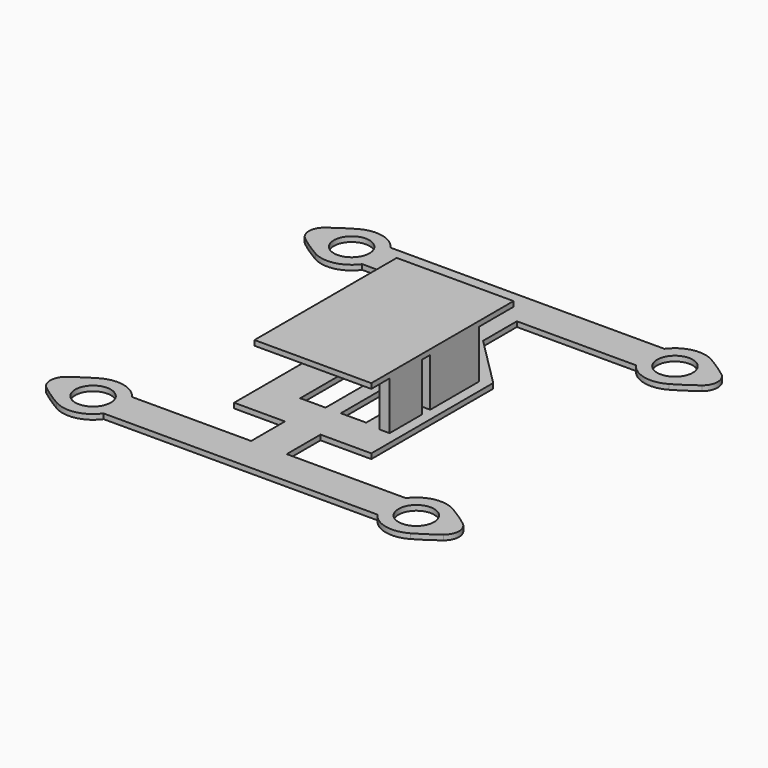
from build123d import *

# Parameters (mm, degrees)
F0_R     = 3.5
F0_W     = 5
F0_H     = 25
F1_DEPTH = 1
F2_W     = 2
F2_H     = 12
F2_H_2   = 8
F3_DEPTH = 9.5
F4_W     = 23
F4_H     = 35
F5_DEPTH = 1


with BuildPart() as f1:
    # F0 (on Top) → F1 (new body)
    with BuildSketch(Plane.XY):
        with BuildLine():
            Line((3.5, -20), (13.5, -20))
            Line((13.5, -20), (13.5, 10))
            Line((13.5, 10), (3.5, 20))
            Line((3.5, 20), (3.5, 28.319805))
            Line((3.5, 28.319805), (26.946408, 28.319805))
            ThreePointArc((26.946408, 28.319805), (30.556224, 25.954367), (34.819805, 26.623653))
            ThreePointArc((34.819805, 26.623653), (36.975362, 27.961046), (39.041812, 29.432384))
            ThreePointArc((39.041812, 29.432384), (40.225162, 31.819805), (39.041812, 34.207227))
            ThreePointArc((39.041812, 34.207227), (36.975362, 35.678564), (34.819805, 37.015958))
            ThreePointArc((34.819805, 37.015958), (30.556224, 37.685243), (26.946408, 35.319805))
            Line((26.946408, 35.319805), (-26.946408, 35.319805))
            ThreePointArc((-26.946408, 35.319805), (-30.556224, 37.685243), (-34.819805, 37.015958))
            ThreePointArc((-34.819805, 37.015958), (-36.975362, 35.678564), (-39.041812, 34.207227))
            ThreePointArc((-39.041812, 34.207227), (-40.225162, 31.819805), (-39.041812, 29.432384))
            ThreePointArc((-39.041812, 29.432384), (-36.975362, 27.961046), (-34.819805, 26.623653))
            ThreePointArc((-34.819805, 26.623653), (-30.556224, 25.954367), (-26.946408, 28.319805))
            Line((-26.946408, 28.319805), (-3.5, 28.319805))
            Line((-3.5, 28.319805), (-3.5, 20))
            Line((-3.5, 20), (-13.5, 10))
            Line((-13.5, 10), (-13.5, -20))
            Line((-13.5, -20), (-3.5, -20))
            Line((-3.5, -20), (-3.5, -28.319805))
            Line((-3.5, -28.319805), (-26.946408, -28.319805))
            ThreePointArc((-26.946408, -28.319805), (-30.556224, -25.954367), (-34.819805, -26.623653))
            ThreePointArc((-34.819805, -26.623653), (-36.975362, -27.961046), (-39.041812, -29.432384))
            ThreePointArc((-39.041812, -29.432384), (-40.225162, -31.819805), (-39.041812, -34.207227))
            ThreePointArc((-39.041812, -34.207227), (-36.975362, -35.678564), (-34.819805, -37.015958))
            ThreePointArc((-34.819805, -37.015958), (-30.556224, -37.685243), (-26.946408, -35.319805))
            Line((-26.946408, -35.319805), (26.946408, -35.319805))
            ThreePointArc((26.946408, -35.319805), (30.556224, -37.685243), (34.819805, -37.015958))
            ThreePointArc((34.819805, -37.015958), (36.975362, -35.678564), (39.041812, -34.207227))
            ThreePointArc((39.041812, -34.207227), (40.225162, -31.819805), (39.041812, -29.432384))
            ThreePointArc((39.041812, -29.432384), (36.975362, -27.961046), (34.819805, -26.623653))
            ThreePointArc((34.819805, -26.623653), (30.556224, -25.954367), (26.946408, -28.319805))
            Line((26.946408, -28.319805), (3.5, -28.319805))
            Line((3.5, -28.319805), (3.5, -20))
        make_face()
        with Locations((-31.819805, -31.819805)):
            Circle(F0_R, mode=Mode.SUBTRACT)
        with Locations((31.819805, -31.819805)):
            Circle(F0_R, mode=Mode.SUBTRACT)
        with Locations((-4, 0)):
            Rectangle(F0_W, F0_H, mode=Mode.SUBTRACT)
        with Locations((-31.819805, 31.819805)):
            Circle(F0_R, mode=Mode.SUBTRACT)
        with Locations((4, 0)):
            Rectangle(F0_W, F0_H, mode=Mode.SUBTRACT)
        with Locations((31.819805, 31.819805)):
            Circle(F0_R, mode=Mode.SUBTRACT)
    extrude(amount=F1_DEPTH)

    # F2 (on face) → F3 (join)
    with BuildSketch(Plane.XY.offset(1)):
        with Locations((-10.5, 3)):
            Rectangle(F2_W, F2_H)
        with Locations((10.5, 3)):
            Rectangle(F2_W, F2_H)
        with Locations((10.5, -9)):
            Rectangle(F2_W, F2_H_2)
    extrude(amount=F3_DEPTH)

    # F4 (on face) → F5 (join)
    with BuildSketch(Plane.XY.offset(10.5)):
        Rectangle(F4_W, F4_H)
    extrude(amount=F5_DEPTH)


solid = f1.part
